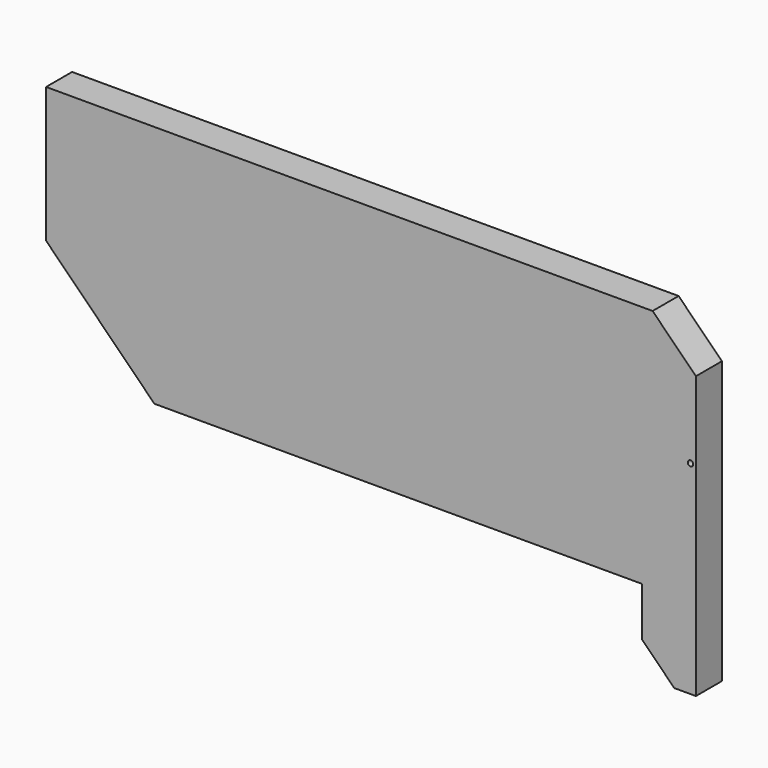
from build123d import *

# Parameters (mm, degrees)
F0_W     = 152.4
F0_H     = 57.15
F0_R     = 0.635
F1_DEPTH = 3.81
F2_SIZE  = 25.4
F3_W     = 12.7
F3_H     = 19.05
F4_DEPTH = 7.62
F5_SIZE  = 7.62
F6_SIZE  = 10.16
F7_T     = -2.54


with BuildPart() as f1:
    # F0 (on Front) → F1 (new body, symmetric)
    with BuildSketch(Plane.XZ):
        Rectangle(F0_W, F0_H)
        with Locations((74.9251618981, 0)):
            Circle(F0_R, mode=Mode.SUBTRACT)
    extrude(amount=F1_DEPTH, both=True)

    # F2
    f2_edges = [f1.edges().sort_by_distance(p)[0] for p in [
        (-76.2, 0, -28.575),
    ]]
    chamfer(f2_edges, length=F2_SIZE)

    # F3 (on face) → F4 (join)
    with BuildSketch(Plane.XZ.offset(3.81)):
        with Locations((69.85, -38.1)):
            Rectangle(F3_W, F3_H)
    extrude(amount=-F4_DEPTH)

    # F5
    f5_edges = [f1.edges().sort_by_distance(p)[0] for p in [
        (63.5, 0, -47.625),
    ]]
    chamfer(f5_edges, length=F5_SIZE)

    # F6
    f6_edges = [f1.edges().sort_by_distance(p)[0] for p in [
        (76.2, 0, 28.575),
    ]]
    chamfer(f6_edges, length=F6_SIZE)

    # F7
    f7_openings = [f1.faces().sort_by_distance(p)[0] for p in [
        (3.858416, 3.81, -0.318506),
    ]]
    offset(amount=F7_T, openings=f7_openings, kind=Kind.INTERSECTION)


solid = f1.part
